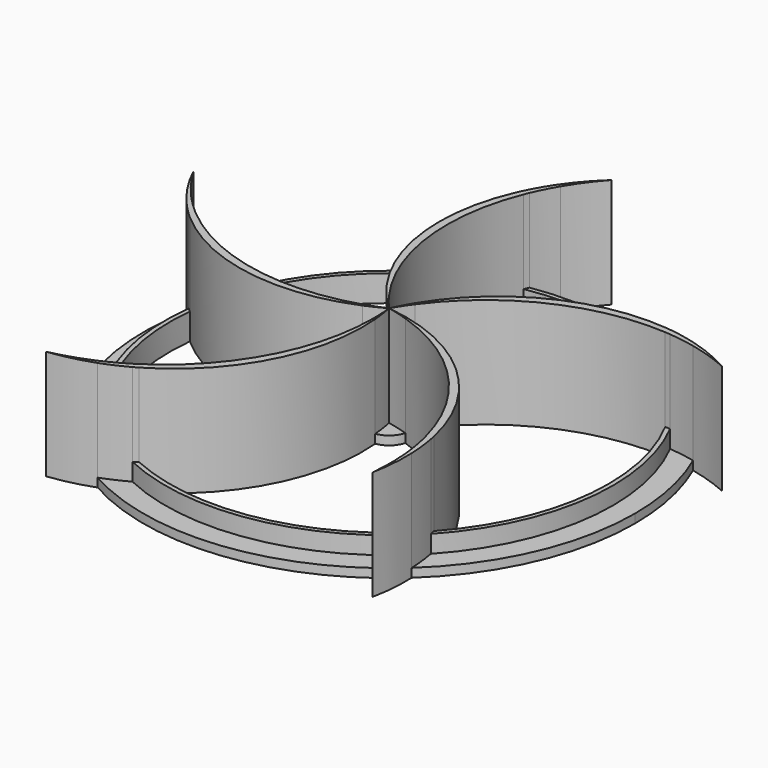
from build123d import *

# Parameters (mm, degrees)
F1_DEPTH = 6
F2_DEPTH = 25
F3_DEPTH = 2


with BuildPart() as f1:
    # F0 (on Top) → F1 (new body)
    with BuildSketch(Plane.XY):
        with BuildLine():
            ThreePointArc((-22.8954102245, -45.5719232714), (-22.3903744318, -45.2660990413), (-21.8891805366, -44.954018457))
            ThreePointArc((-21.8891805366, -44.954018457), (-43.7541183996, -24.1987008551), (-49.7125315063, 5.3538968269))
            ThreePointArc((-49.7125315063, 5.3538968269), (-50.1708128532, 5.7681136444), (-50.6230962135, 6.188871445))
            ThreePointArc((-50.6230962135, 6.188871445), (-44.9559524939, -24.0824071755), (-22.8954102245, -45.5719232714))
        make_face()
    extrude(amount=F1_DEPTH)


with BuildPart() as f1b:
    # F0 (on Top) → F1, piece 2 (new body)
    with BuildSketch(Plane.XY):
        with BuildLine():
            ThreePointArc((-49.517940966, 6.9262921171), (-36.5350982935, 34.1348296126), (-10.2701586041, 48.9338721363))
            ThreePointArc((-10.2701586041, 48.9338721363), (-10.017831725, 49.4977236335), (-9.7574305215, 50.0578919814))
            ThreePointArc((-9.7574305215, 50.0578919814), (-36.7958835912, 35.3137784829), (-50.4165454399, 7.6923303301))
            ThreePointArc((-50.4165454399, 7.6923303301), (-49.9696246703, 7.3065176328), (-49.517940966, 6.9262921171))
        make_face()
    extrude(amount=F1_DEPTH)


with BuildPart() as f1c:
    # F0 (on Top) → F1, piece 3 (new body)
    with BuildSketch(Plane.XY):
        with BuildLine():
            ThreePointArc((-8.7145900333, 49.2347024014), (21.1741858719, 45.2951857559), (43.3652244191, 24.8888993545))
            ThreePointArc((43.3652244191, 24.8888993545), (43.9794523535, 24.8231619269), (44.5926725083, 24.7486072046))
            ThreePointArc((44.5926725083, 24.7486072046), (22.2148457885, 45.9075225491), (-8.2637284527, 50.326044868))
            ThreePointArc((-8.2637284527, 50.326044868), (-8.4925520195, 49.7817752778), (-8.7145900333, 49.2347024014))
        make_face()
    extrude(amount=F1_DEPTH)


with BuildPart() as f1d:
    # F0 (on Top) → F1, piece 4 (new body)
    with BuildSketch(Plane.XY):
        with BuildLine():
            ThreePointArc((44.1320281274, 23.502427393), (48.5108307823, 12.1119485144), (50, 0))
            ThreePointArc((50, 0), (46.6560128024, -17.9782220861), (37.0713412249, -33.5516863926))
            ThreePointArc((37.0713412249, -33.5516863926), (37.1986280861, -34.1561658544), (37.3172177809, -34.7624115547))
            ThreePointArc((37.3172177809, -34.7624115547), (47.45618035, -18.6791580803), (51, 0))
            ThreePointArc((51, 0), (49.5569031493, 12.0463002723), (45.3092803823, 23.4108759177))
            ThreePointArc((45.3092803823, 23.4108759177), (44.720938871, 23.4603115091), (44.1320281274, 23.502427393))
        make_face()
    extrude(amount=F1_DEPTH)


with BuildPart() as f1e:
    # F0 (on Top) → F1, piece 5 (new body)
    with BuildSketch(Plane.XY):
        with BuildLine():
            ThreePointArc((36.2664037348, -35.8573278445), (36.1316122506, -35.2825053785), (35.9896834085, -34.7094034544))
            ThreePointArc((35.9896834084, -34.7094034544), (9.4935659748, -49.0904492247), (-20.4538755336, -45.624981925))
            ThreePointArc((-20.4538755336, -45.624981925), (-20.9894358614, -45.9328333503), (-21.5293635541, -46.2329590763))
            ThreePointArc((-21.5293635541, -46.2329590763), (9.0115769534, -50.1975246483), (36.2664037348, -35.8573278445))
        make_face()
    extrude(amount=F1_DEPTH)


with BuildPart() as f2:
    # F0 (on Top) → F2 (new body)
    with BuildSketch(Plane.XY):
        with BuildLine():
            ThreePointArc((-21.8891805366, -44.954018457), (-21.1741858719, -45.2951857559), (-20.4538755336, -45.624981925))
            ThreePointArc((-20.4538755336, -45.624981925), (-3.9717276623, -28.2830923719), (0.6906537824, -4.8168500015))
            ThreePointArc((0.6906537824, -4.8168500015), (0.4677267154, -4.8435811445), (0.2438038909, -4.8600006427))
            ThreePointArc((0.2438038909, -4.8600006427), (-5.6690740527, -27.7519442958), (-21.8891805366, -44.954018457))
        make_face()
        with BuildLine():
            ThreePointArc((-21.5293635541, -46.2329590763), (-20.9894358614, -45.9328333503), (-20.4538755336, -45.624981925))
            ThreePointArc((-20.4538755336, -45.624981925), (-21.1741858719, -45.2951857559), (-21.8891805366, -44.954018457))
            ThreePointArc((-21.8891805366, -44.954018457), (-22.3903744318, -45.2660990413), (-22.8954102245, -45.5719232714))
            ThreePointArc((-22.8954102245, -45.5719232714), (-22.2148457885, -45.9075225491), (-21.5293635541, -46.2329590763))
        make_face()
        with BuildLine():
            ThreePointArc((-37.2099719352, -51.2151326328), (-32.207547695, -50.3346301016), (-27.343856906, -48.870374354))
            ThreePointArc((-27.343856906, -48.870374354), (-27.8118046204, -48.6055914865), (-28.2771885668, -48.3363280231))
            ThreePointArc((-28.2771885668, -48.3363280231), (-32.6722753879, -49.9969856688), (-37.2099719352, -51.2151326328))
        make_face()
        with BuildLine():
            ThreePointArc((-27.343856906, -48.870374354), (-24.3875898676, -47.6597378916), (-21.5293635541, -46.2329590763))
            ThreePointArc((-21.5293635541, -46.2329590763), (-22.2148457885, -45.9075225491), (-22.8954102245, -45.5719232714))
            ThreePointArc((-22.8954102245, -45.5719232714), (-25.5422221299, -47.039935829), (-28.2771885668, -48.3363280231))
            ThreePointArc((-28.2771885668, -48.3363280231), (-27.8118046204, -48.6055914865), (-27.343856906, -48.870374354))
        make_face()
        with BuildLine():
            ThreePointArc((0.6906537824, -4.8168500015), (0.413521748, -2.3986470264), (0, 0))
            ThreePointArc((0, 0), (0.1842040064, -2.4268749133), (0.2438038909, -4.8600006427))
            ThreePointArc((0.2438038909, -4.8600006427), (0.4677267154, -4.8435811445), (0.6906537824, -4.8168500015))
        make_face()
    extrude(amount=F2_DEPTH)


with BuildPart() as f2b:
    # F0 (on Top) → F2, piece 2 (new body)
    with BuildSketch(Plane.XY):
        with BuildLine():
            ThreePointArc((35.9896834084, -34.7094034544), (36.5350982935, -34.1348296126), (37.0713412249, -33.5516863926))
            ThreePointArc((37.0713412249, -33.5516863926), (25.6714879566, -12.5172936706), (4.7945203379, -0.8316377295))
            ThreePointArc((4.7945203379, -0.8316377295), (4.7510549135, -1.0519143468), (4.697474826, -1.2699515121))
            ThreePointArc((4.697474826, -1.2699515121), (24.6418272377, -13.9674322336), (35.9896834085, -34.7094034544))
        make_face()
        with BuildLine():
            ThreePointArc((37.3172177809, -34.7624115547), (37.1986280861, -34.1561658544), (37.0713412249, -33.5516863926))
            ThreePointArc((37.0713412249, -33.5516863926), (36.5350982935, -34.1348296126), (35.9896834084, -34.7094034544))
            ThreePointArc((35.9896834085, -34.7094034544), (36.1316122506, -35.2825053785), (36.2664037348, -35.8573278445))
            ThreePointArc((36.2664037348, -35.8573278445), (36.7958835912, -35.3137784829), (37.3172177809, -34.7624115547))
        make_face()
        with BuildLine():
            ThreePointArc((37.2099719352, -51.2151326328), (37.9183983685, -46.1854542162), (38.0287715075, -41.107329488))
            ThreePointArc((38.0287715075, -41.107329488), (37.6323442397, -41.4705518051), (37.2324479199, -41.8299512538))
            ThreePointArc((37.2324479199, -41.8299512538), (37.4536706756, -46.523098649), (37.2099719352, -51.2151326328))
        make_face()
        with BuildLine():
            ThreePointArc((38.0287715075, -41.107329488), (37.7909245658, -37.9216452163), (37.3172177809, -34.7624115547))
            ThreePointArc((37.3172177809, -34.7624115547), (36.7958835912, -35.3137784829), (36.2664037348, -35.8573278445))
            ThreePointArc((36.2664037348, -35.8573278445), (36.8446567841, -38.8282363828), (37.2324479199, -41.8299512538))
            ThreePointArc((37.2324479199, -41.8299512538), (37.6323442397, -41.4705518051), (38.0287715075, -41.107329488))
        make_face()
        with BuildLine():
            ThreePointArc((4.697474826, -1.2699515121), (4.7510549135, -1.0519143468), (4.7945203379, -0.8316377295))
            ThreePointArc((4.7945203379, -0.8316377295), (2.4090341324, -0.3479401416), (0, 0))
            ThreePointArc((0, 0), (2.365017369, -0.5747571708), (4.697474826, -1.2699515121))
        make_face()
    extrude(amount=F2_DEPTH)


with BuildPart() as f2c:
    # F0 (on Top) → F2, piece 3 (new body)
    with BuildSketch(Plane.XY):
        with BuildLine():
            ThreePointArc((2.6593952128, 4.0751274441), (20.8985608305, 19.1195964399), (44.1320281274, 23.502427393))
            ThreePointArc((44.1320281274, 23.502427393), (43.7541183996, 24.1987008551), (43.3652244191, 24.8888993545))
            ThreePointArc((43.3652244191, 24.8888993545), (19.8375797613, 20.5469794363), (2.2725227462, 4.3028696183))
            ThreePointArc((2.2725227462, 4.3028696183), (2.4685867036, 4.193462325), (2.6593952128, 4.0751274441))
        make_face()
        with BuildLine():
            ThreePointArc((50.846930248, 23.4646475437), (51.0698724369, 22.9753809387), (51.2881068656, 22.4839964005))
            ThreePointArc((51.2881068656, 22.4839964005), (55.8199168689, 21.2441294417), (60.2069993115, 19.5624399274))
            ThreePointArc((60.2069993115, 19.5624399274), (55.6424066857, 21.7904496101), (50.846930248, 23.4646475437))
        make_face()
        with BuildLine():
            ThreePointArc((43.3652244191, 24.8888993545), (43.7541183996, 24.1987008551), (44.1320281274, 23.502427393))
            ThreePointArc((44.1320281274, 23.502427393), (44.720938871, 23.4603115091), (45.3092803823, 23.4108759177))
            ThreePointArc((45.3092803823, 23.4108759177), (44.9559524939, 24.0824071755), (44.5926725083, 24.7486072046))
            ThreePointArc((44.5926725083, 24.7486072046), (43.9794523535, 24.8231619269), (43.3652244191, 24.8888993545))
        make_face()
        with BuildLine():
            ThreePointArc((44.5926725083, 24.7486072046), (44.9559524939, 24.0824071755), (45.3092803823, 23.4108759177))
            ThreePointArc((45.3092803823, 23.4108759177), (48.3134723263, 23.0427660213), (51.2881068656, 22.4839964005))
            ThreePointArc((51.2881068656, 22.4839964005), (51.0698724369, 22.9753809387), (50.846930248, 23.4646475437))
            ThreePointArc((50.846930248, 23.4646475437), (47.7436657155, 24.2228722386), (44.5926725083, 24.7486072046))
        make_face()
        with BuildLine():
            ThreePointArc((0, 0), (1.2774571116, 2.0716554465), (2.6593952128, 4.0751274441))
            ThreePointArc((2.6593952128, 4.0751274441), (2.4685867036, 4.193462325), (2.2725227462, 4.3028696183))
            ThreePointArc((2.2725227462, 4.3028696183), (1.0753432259, 2.1836081928), (0, 0))
        make_face()
    extrude(amount=F2_DEPTH)


with BuildPart() as f2d:
    # F0 (on Top) → F2, piece 4 (new body)
    with BuildSketch(Plane.XY):
        with BuildLine():
            ThreePointArc((-3.0538781949, 3.788518781), (-11.7258063285, 25.7839926846), (-8.7145900333, 49.2347024014))
            ThreePointArc((-8.7145900333, 49.2347024014), (-9.4935659748, 49.0904492247), (-10.2701586041, 48.9338721363))
            ThreePointArc((-10.2701586041, 48.9338721363), (-13.4111894096, 25.2160253284), (-3.3900240406, 3.4909574028))
            ThreePointArc((-3.3900240406, 3.4909574028), (-3.2253844265, 3.6436165941), (-3.0538781949, 3.788518781))
        make_face()
        with BuildLine():
            ThreePointArc((-10.2701586041, 48.9338721363), (-9.4935659748, 49.0904492247), (-8.7145900333, 49.2347024014))
            ThreePointArc((-8.7145900333, 49.2347024014), (-8.4925520195, 49.7817752778), (-8.2637284527, 50.326044868))
            ThreePointArc((-8.2637284527, 50.326044868), (-9.0115769534, 50.1975246483), (-9.7574305215, 50.0578919814))
            ThreePointArc((-9.7574305215, 50.0578919814), (-10.017831725, 49.4977236335), (-10.2701586041, 48.9338721363))
        make_face()
        with BuildLine():
            ThreePointArc((-6.6036403906, 55.609279204), (-6.0694272726, 55.6701181298), (-5.5346546583, 55.7258252322))
            ThreePointArc((-5.5346546583, 55.7258252322), (-2.9550648015, 59.6526927054), (0, 63.3053854108))
            ThreePointArc((0, 63.3053854108), (-3.5294998209, 59.6526927054), (-6.6036403906, 55.609279204))
        make_face()
        with BuildLine():
            ThreePointArc((-9.7574305215, 50.0578919814), (-9.0115769534, 50.1975246483), (-8.2637284527, 50.326044868))
            ThreePointArc((-8.2637284527, 50.326044868), (-6.9852887719, 53.0694489787), (-5.5346546583, 55.7258252322))
            ThreePointArc((-5.5346546583, 55.7258252322), (-6.0694272726, 55.6701181298), (-6.6036403906, 55.609279204))
            ThreePointArc((-6.6036403906, 55.609279204), (-8.2837164061, 52.8922035649), (-9.7574305215, 50.0578919814))
        make_face()
        with BuildLine():
            ThreePointArc((-3.3900240406, 3.4909574028), (-1.7444354692, 1.6974842229), (0, 0))
            ThreePointArc((0, 0), (-1.5755054548, 1.8551106497), (-3.0538781949, 3.788518781))
            ThreePointArc((-3.0538781949, 3.788518781), (-3.2253844265, 3.6436165941), (-3.3900240406, 3.4909574028))
        make_face()
    extrude(amount=F2_DEPTH)


with BuildPart() as f2e:
    # F0 (on Top) → F2, piece 5 (new body)
    with BuildSketch(Plane.XY):
        with BuildLine():
            ThreePointArc((-49.7125315063, 5.3538968269), (-28.1261506459, -4.9626187222), (-4.3676728259, -2.1453392901))
            ThreePointArc((-4.3676728259, -2.1453392901), (-4.4619839059, -1.9415834278), (-4.5467957348, -1.7336940704))
            ThreePointArc((-4.5467957348, -1.7336940704), (-28.1455076871, -3.1842125952), (-49.517940966, 6.9262921171))
            ThreePointArc((-49.517940966, 6.9262921171), (-49.6214648464, 6.1408652887), (-49.7125315063, 5.3538968269))
        make_face()
        with BuildLine():
            ThreePointArc((-49.7125315063, 5.3538968269), (-49.6214648464, 6.1408652887), (-49.517940966, 6.9262921171))
            ThreePointArc((-49.517940966, 6.9262921171), (-49.9696246703, 7.3065176328), (-50.4165454399, 7.6923303301))
            ThreePointArc((-50.4165454399, 7.6923303301), (-50.5254133433, 6.9413692083), (-50.6230962135, 6.188871445))
            ThreePointArc((-50.6230962135, 6.188871445), (-50.1708128532, 5.7681136444), (-49.7125315063, 5.3538968269))
        make_face()
        with BuildLine():
            ThreePointArc((-54.9282044589, 10.9037770942), (-54.8209847836, 11.4306442232), (-54.7087115604, 11.9564576442))
            ThreePointArc((-54.7087115604, 11.9564576442), (-57.6462473552, 15.6232621707), (-60.2069993115, 19.5624399274))
            ThreePointArc((-60.2069993115, 19.5624399274), (-57.8237575383, 15.0769420023), (-54.9282044589, 10.9037770942))
        make_face()
        with BuildLine():
            ThreePointArc((-50.6230962135, 6.188871445), (-50.5254133433, 6.9413692083), (-50.4165454399, 7.6923303301))
            ThreePointArc((-50.4165454399, 7.6923303301), (-52.6306182085, 9.7559572118), (-54.7087115604, 11.9564576442))
            ThreePointArc((-54.7087115604, 11.9564576442), (-54.8209847836, 11.4306442232), (-54.9282044589, 10.9037770942))
            ThreePointArc((-54.9282044589, 10.9037770942), (-52.8632840077, 8.4663073043), (-50.6230962135, 6.188871445))
        make_face()
        with BuildLine():
            ThreePointArc((-4.3676728259, -2.1453392901), (-2.1534636371, -1.1345052477), (0, 0))
            ThreePointArc((0, 0), (-2.2511730322, -0.925134012), (-4.5467957348, -1.7336940704))
            ThreePointArc((-4.5467957348, -1.7336940704), (-4.4619839059, -1.9415834278), (-4.3676728259, -2.1453392901))
        make_face()
    extrude(amount=F2_DEPTH)


with BuildPart() as f3:
    # F0 (on Top) → F3 (new body)
    with BuildSketch(Plane.XY):
        with BuildLine():
            ThreePointArc((-28.2771885668, -48.3363280231), (-25.5422221299, -47.039935829), (-22.8954102245, -45.5719232714))
            ThreePointArc((-22.8954102245, -45.5719232714), (-44.9559524939, -24.0824071755), (-50.6230962135, 6.188871445))
            ThreePointArc((-50.6230962135, 6.188871445), (-52.8632840077, 8.4663073043), (-54.9282044589, 10.9037770942))
            ThreePointArc((-54.9282044589, 10.9037770942), (-51.0698724369, -22.9753809387), (-28.2771885668, -48.3363280231))
        make_face()
    extrude(amount=F3_DEPTH)


with BuildPart() as f3b:
    # F0 (on Top) → F3, piece 2 (new body)
    with BuildSketch(Plane.XY):
        with BuildLine():
            ThreePointArc((37.2324479199, -41.8299512538), (36.8446567841, -38.8282363828), (36.2664037348, -35.8573278445))
            ThreePointArc((36.2664037348, -35.8573278445), (9.0115769534, -50.1975246483), (-21.5293635541, -46.2329590763))
            ThreePointArc((-21.5293635541, -46.2329590763), (-24.3875898676, -47.6597378916), (-27.343856906, -48.870374354))
            ThreePointArc((-27.343856906, -48.870374354), (6.0694272726, -55.6701181298), (37.2324479199, -41.8299512538))
        make_face()
    extrude(amount=F3_DEPTH)


with BuildPart() as f3c:
    # F0 (on Top) → F3, piece 3 (new body)
    with BuildSketch(Plane.XY):
        with BuildLine():
            ThreePointArc((-50.4165454399, 7.6923303301), (-36.7958835912, 35.3137784829), (-9.7574305215, 50.0578919814))
            ThreePointArc((-9.7574305215, 50.0578919814), (-8.2837164061, 52.8922035649), (-6.6036403906, 55.609279204))
            ThreePointArc((-6.6036403906, 55.609279204), (-37.6323442397, 41.4705518051), (-54.7087115604, 11.9564576442))
            ThreePointArc((-54.7087115604, 11.9564576442), (-52.6306182085, 9.7559572118), (-50.4165454399, 7.6923303301))
        make_face()
    extrude(amount=F3_DEPTH)


with BuildPart() as f3d:
    # F0 (on Top) → F3, piece 4 (new body)
    with BuildSketch(Plane.XY):
        with BuildLine():
            ThreePointArc((-8.2637284527, 50.326044868), (22.2148457885, 45.9075225491), (44.5926725083, 24.7486072046))
            ThreePointArc((44.5926725083, 24.7486072046), (47.7436657155, 24.2228722386), (50.846930248, 23.4646475437))
            ThreePointArc((50.846930248, 23.4646475437), (27.8118046204, 48.6055914865), (-5.5346546583, 55.7258252322))
            ThreePointArc((-5.5346546583, 55.7258252322), (-6.9852887719, 53.0694489787), (-8.2637284527, 50.326044868))
        make_face()
    extrude(amount=F3_DEPTH)


with BuildPart() as f3e:
    # F0 (on Top) → F3, piece 5 (new body)
    with BuildSketch(Plane.XY):
        with BuildLine():
            ThreePointArc((51.2881068656, 22.4839964005), (48.3134723263, 23.0427660213), (45.3092803823, 23.4108759177))
            ThreePointArc((45.3092803823, 23.4108759177), (49.5569031493, 12.0463002723), (51, 0))
            ThreePointArc((51, 0), (47.45618035, -18.6791580803), (37.3172177809, -34.7624115547))
            ThreePointArc((37.3172177809, -34.7624115547), (37.7909245658, -37.9216452163), (38.0287715075, -41.107329488))
            ThreePointArc((38.0287715075, -41.107329488), (51.3108721638, -22.4319949579), (56, 0))
            ThreePointArc((56, 0), (54.8093695661, 11.4862094601), (51.2881068656, 22.4839964005))
        make_face()
    extrude(amount=F3_DEPTH)


with BuildPart() as f3f:
    # F0 (on Top) → F3, piece 6 (new body)
    with BuildSketch(Plane.XY):
        with BuildLine():
            ThreePointArc((0.2438038909, -4.8600006427), (0.1842040064, -2.4268749133), (0, 0))
            ThreePointArc((0, 0), (-2.1534636371, -1.1345052477), (-4.3676728259, -2.1453392901))
            ThreePointArc((-4.3676728259, -2.1453392901), (-2.4685867036, -4.193462325), (0.2438038909, -4.8600006427))
        make_face()
    extrude(amount=F3_DEPTH)


with BuildPart() as f3g:
    # F0 (on Top) → F3, piece 7 (new body)
    with BuildSketch(Plane.XY):
        with BuildLine():
            ThreePointArc((4.697474826, -1.2699515121), (2.365017369, -0.5747571708), (0, 0))
            ThreePointArc((0, 0), (0.413521748, -2.3986470264), (0.6906537824, -4.8168500015))
            ThreePointArc((0.6906537824, -4.8168500015), (3.2253844265, -3.6436165941), (4.697474826, -1.2699515121))
        make_face()
    extrude(amount=F3_DEPTH)


with BuildPart() as f3h:
    # F0 (on Top) → F3, piece 8 (new body)
    with BuildSketch(Plane.XY):
        with BuildLine():
            ThreePointArc((4.8661120603, 0), (4.2790163415, 2.3171244534), (2.6593952128, 4.0751274441))
            ThreePointArc((2.6593952128, 4.0751274441), (1.2774571116, 2.0716554465), (0, 0))
            ThreePointArc((0, 0), (2.4090341324, -0.3479401416), (4.7945203379, -0.8316377295))
            ThreePointArc((4.7945203379, -0.8316377295), (4.8481810931, -0.4173567682), (4.8661120603, 0))
        make_face()
    extrude(amount=F3_DEPTH)


with BuildPart() as f3i:
    # F0 (on Top) → F3, piece 9 (new body)
    with BuildSketch(Plane.XY):
        with BuildLine():
            ThreePointArc((0, 0), (1.0753432259, 2.1836081928), (2.2725227462, 4.3028696183))
            ThreePointArc((2.2725227462, 4.3028696183), (-0.4677267154, 4.8435811445), (-3.0538781949, 3.788518781))
            ThreePointArc((-3.0538781949, 3.788518781), (-1.5755054548, 1.8551106497), (0, 0))
        make_face()
    extrude(amount=F3_DEPTH)


with BuildPart() as f3j:
    # F0 (on Top) → F3, piece 10 (new body)
    with BuildSketch(Plane.XY):
        with BuildLine():
            ThreePointArc((-4.5467957348, -1.7336940704), (-2.2511730322, -0.925134012), (0, 0))
            ThreePointArc((0, 0), (-1.7444354692, 1.6974842229), (-3.3900240406, 3.4909574028))
            ThreePointArc((-3.3900240406, 3.4909574028), (-4.7510549135, 1.0519143468), (-4.5467957348, -1.7336940704))
        make_face()
    extrude(amount=F3_DEPTH)


solid = Compound([f1.part, f1b.part, f1c.part, f1d.part, f1e.part, f2.part, f2b.part, f2c.part, f2d.part, f2e.part, f3.part, f3b.part, f3c.part, f3d.part, f3e.part, f3f.part, f3g.part, f3h.part, f3i.part, f3j.part])
